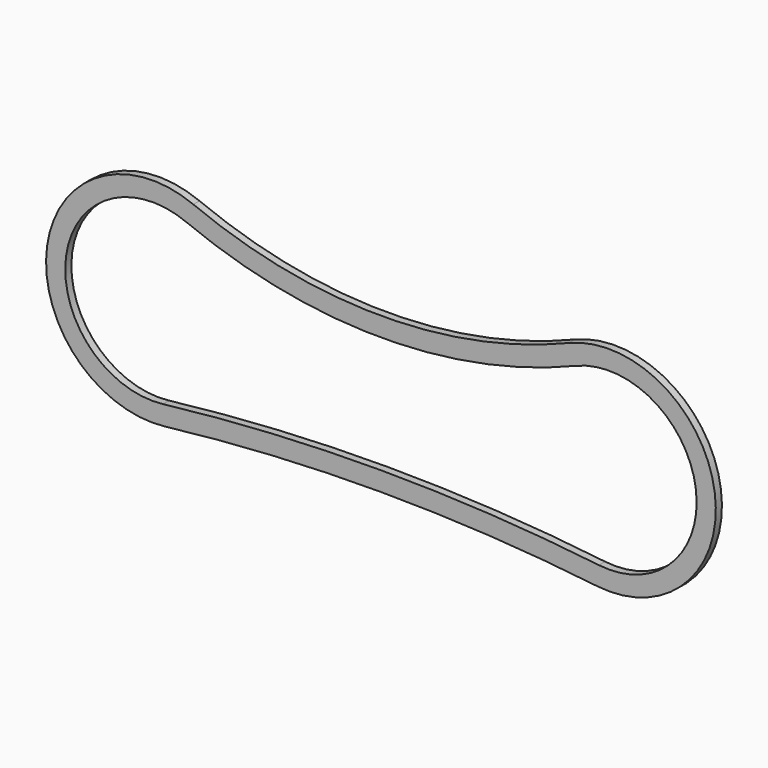
from build123d import *

# Parameters (mm, degrees)
F1_DEPTH = 20


with BuildPart() as f1:
    # F0 (on Front) → F1 (new body)
    with BuildSketch(Plane.XZ):
        with BuildLine():
            ThreePointArc((489.067735, 244.89684), (-0.249757, 148.374207), (-489.567249, 244.89684))
            ThreePointArc((-489.567249, 244.89684), (-870.956673, 25.346072), (-562.960597, -288.976771))
            ThreePointArc((-562.960597, -288.976771), (-0.249757, -256.22251), (562.461083, -288.976771))
            ThreePointArc((562.461083, -288.976771), (870.457159, 25.346072), (489.067735, 244.89684))
        make_face()
        with BuildLine():
            ThreePointArc((-568.76174, -239.314444), (-821.422552, 18.536454), (-508.554405, 198.642241))
            ThreePointArc((-508.554405, 198.642241), (-0.249757, 98.374207), (508.054891, 198.642241))
            ThreePointArc((508.054891, 198.642241), (820.923038, 18.536454), (568.262226, -239.314444))
            ThreePointArc((568.262226, -239.314444), (-0.249757, -206.22251), (-568.76174, -239.314444))
        make_face(mode=Mode.SUBTRACT)
    extrude(amount=F1_DEPTH)


solid = f1.part
